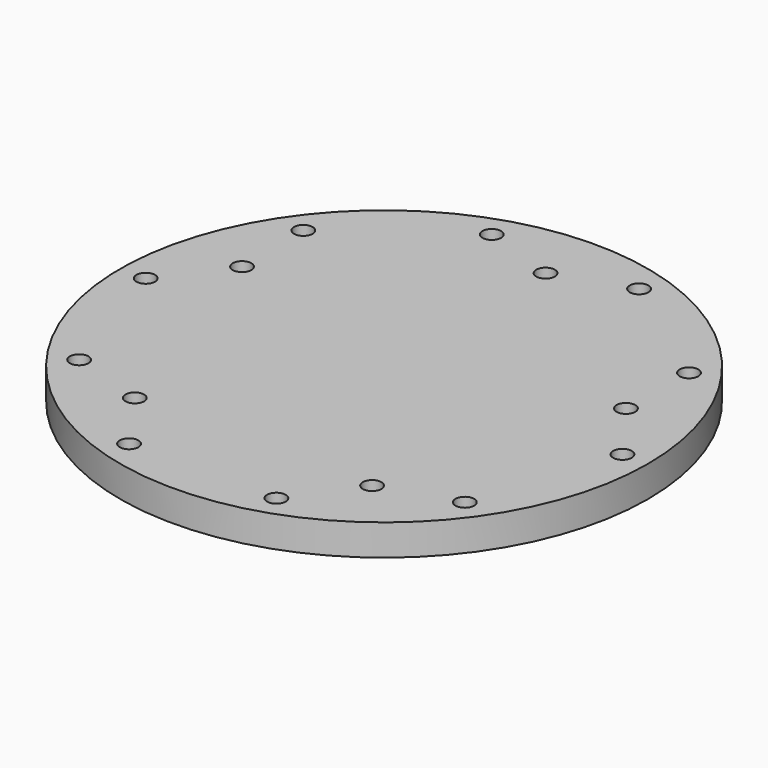
from build123d import *

# Parameters (mm, degrees)
F0_R     = 85
F1_DEPTH = 10
F2_R     = 32.25
F3_DEPTH = 10
F4_R     = 3
F5_DEPTH = 20.001
F6_R     = 3
F7_DEPTH = 20.001


with BuildPart() as f1:
    # F0 (on Top) → F1 (new body)
    with BuildSketch(Plane.XY):
        Circle(F0_R)
    extrude(amount=F1_DEPTH)

    # F2 (on face) → F3 (join)
    with BuildSketch(Plane(origin=(0, 0, 0), x_dir=(1, 0, 0), z_dir=(0, 0, -1))):
        Circle(F2_R)
    extrude(amount=F3_DEPTH)

    # F4 (on face) → F5 (cut, through all)
    with BuildSketch(Plane.XY.offset(10)):
        with Locations((0, 65)):
            Circle(F4_R)
        with Locations((-61.818674, 20.086105)):
            Circle(F4_R)
        with Locations((-38.206041, -52.586105)):
            Circle(F4_R)
        with Locations((38.206041, -52.586105)):
            Circle(F4_R)
        with Locations((61.818674, 20.086105)):
            Circle(F4_R)
    extrude(amount=-F5_DEPTH, mode=Mode.SUBTRACT)

    # F6 (on face) → F7 (cut, through all)
    with BuildSketch(Plane.XY.offset(10)):
        with Locations((-23.719138, -73)):
            Circle(F6_R)
        with Locations((23.719138, -73)):
            Circle(F6_R)
        with Locations((62.097509, -45.116481)):
            Circle(F6_R)
        with Locations((76.756742, 0)):
            Circle(F6_R)
        with Locations((62.097509, 45.116481)):
            Circle(F6_R)
        with Locations((23.719138, 73)):
            Circle(F6_R)
        with Locations((-23.719138, 73)):
            Circle(F6_R)
        with Locations((-62.097509, 45.116481)):
            Circle(F6_R)
        with Locations((-76.756742, 0)):
            Circle(F6_R)
        with Locations((-62.097509, -45.116481)):
            Circle(F6_R)
    extrude(amount=-F7_DEPTH, mode=Mode.SUBTRACT)


solid = f1.part
